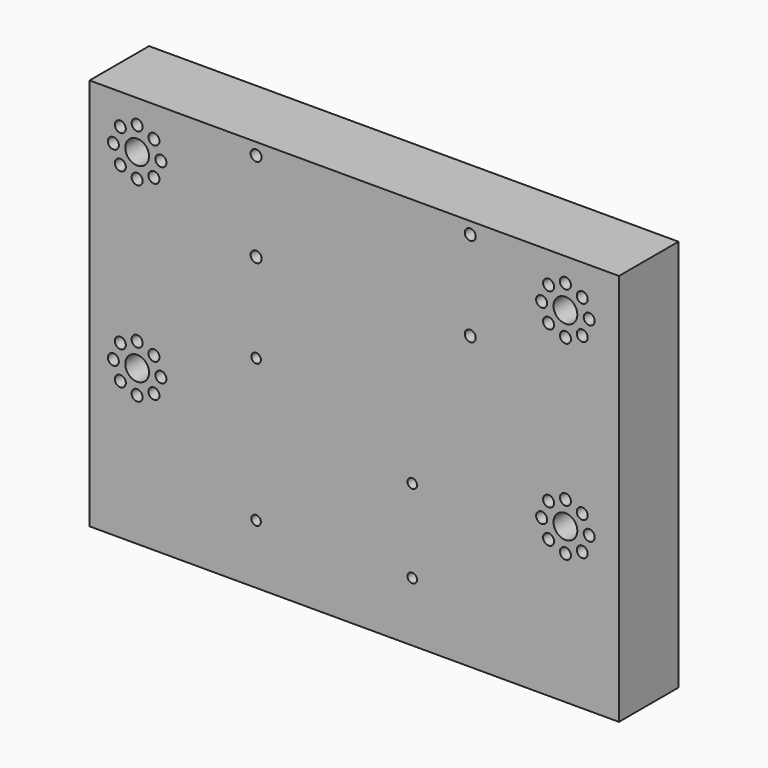
from build123d import *

# Parameters (mm, degrees)
F0_W     = 178
F0_H     = 132
F0_R     = 1.6
F0_R_2   = 1.85
F0_R_3   = 4
F1_DEPTH = 25


with BuildPart() as f1:
    # F0 (on Front) → F1 (new body)
    with BuildSketch(Plane.XZ):
        with Locations((0, -66)):
            Rectangle(F0_W, F0_H)
        with Locations((-33, -112)):
            Circle(F0_R, mode=Mode.SUBTRACT)
        with Locations((-78.656854, -85.656854)):
            Circle(F0_R_2, mode=Mode.SUBTRACT)
        with Locations((-73, -88)):
            Circle(F0_R_2, mode=Mode.SUBTRACT)
        with Locations((-67.343146, -85.656854)):
            Circle(F0_R_2, mode=Mode.SUBTRACT)
        with Locations((-81, -80)):
            Circle(F0_R_2, mode=Mode.SUBTRACT)
        with Locations((-78.656854, -74.343146)):
            Circle(F0_R_2, mode=Mode.SUBTRACT)
        with Locations((-73, -80)):
            Circle(F0_R_3, mode=Mode.SUBTRACT)
        with Locations((-67.343146, -74.343146)):
            Circle(F0_R_2, mode=Mode.SUBTRACT)
        with Locations((-73, -72)):
            Circle(F0_R_2, mode=Mode.SUBTRACT)
        with Locations((-65, -80)):
            Circle(F0_R_2, mode=Mode.SUBTRACT)
        with Locations((19.5, -112)):
            Circle(F0_R, mode=Mode.SUBTRACT)
        with Locations((19.5, -84)):
            Circle(F0_R, mode=Mode.SUBTRACT)
        with Locations((65.343146, -85.656854)):
            Circle(F0_R_2, mode=Mode.SUBTRACT)
        with Locations((71, -88)):
            Circle(F0_R_2, mode=Mode.SUBTRACT)
        with Locations((76.656854, -85.656854)):
            Circle(F0_R_2, mode=Mode.SUBTRACT)
        with Locations((63, -80)):
            Circle(F0_R_2, mode=Mode.SUBTRACT)
        with Locations((65.343146, -74.343146)):
            Circle(F0_R_2, mode=Mode.SUBTRACT)
        with Locations((71, -80)):
            Circle(F0_R_3, mode=Mode.SUBTRACT)
        with Locations((76.656854, -74.343146)):
            Circle(F0_R_2, mode=Mode.SUBTRACT)
        with Locations((79, -80)):
            Circle(F0_R_2, mode=Mode.SUBTRACT)
        with Locations((71, -72)):
            Circle(F0_R_2, mode=Mode.SUBTRACT)
        with Locations((-33, -64)):
            Circle(F0_R, mode=Mode.SUBTRACT)
        with Locations((-33, -34)):
            Circle(F0_R_2, mode=Mode.SUBTRACT)
        with Locations((-78.656854, -21.656854)):
            Circle(F0_R_2, mode=Mode.SUBTRACT)
        with Locations((-73, -24)):
            Circle(F0_R_2, mode=Mode.SUBTRACT)
        with Locations((-67.343146, -21.656854)):
            Circle(F0_R_2, mode=Mode.SUBTRACT)
        with Locations((-81, -16)):
            Circle(F0_R_2, mode=Mode.SUBTRACT)
        with Locations((-78.656854, -10.343146)):
            Circle(F0_R_2, mode=Mode.SUBTRACT)
        with Locations((-73, -16)):
            Circle(F0_R_3, mode=Mode.SUBTRACT)
        with Locations((-67.343146, -10.343146)):
            Circle(F0_R_2, mode=Mode.SUBTRACT)
        with Locations((-73, -8)):
            Circle(F0_R_2, mode=Mode.SUBTRACT)
        with Locations((-65, -16)):
            Circle(F0_R_2, mode=Mode.SUBTRACT)
        with Locations((-33, -4)):
            Circle(F0_R_2, mode=Mode.SUBTRACT)
        with Locations((39, -34)):
            Circle(F0_R_2, mode=Mode.SUBTRACT)
        with Locations((39, -4)):
            Circle(F0_R_2, mode=Mode.SUBTRACT)
        with Locations((65.343146, -21.656854)):
            Circle(F0_R_2, mode=Mode.SUBTRACT)
        with Locations((71, -24)):
            Circle(F0_R_2, mode=Mode.SUBTRACT)
        with Locations((76.656854, -21.656854)):
            Circle(F0_R_2, mode=Mode.SUBTRACT)
        with Locations((63, -16)):
            Circle(F0_R_2, mode=Mode.SUBTRACT)
        with Locations((65.343146, -10.343146)):
            Circle(F0_R_2, mode=Mode.SUBTRACT)
        with Locations((71, -16)):
            Circle(F0_R_3, mode=Mode.SUBTRACT)
        with Locations((76.656854, -10.343146)):
            Circle(F0_R_2, mode=Mode.SUBTRACT)
        with Locations((79, -16)):
            Circle(F0_R_2, mode=Mode.SUBTRACT)
        with Locations((71, -8)):
            Circle(F0_R_2, mode=Mode.SUBTRACT)
    extrude(amount=F1_DEPTH)


solid = f1.part
